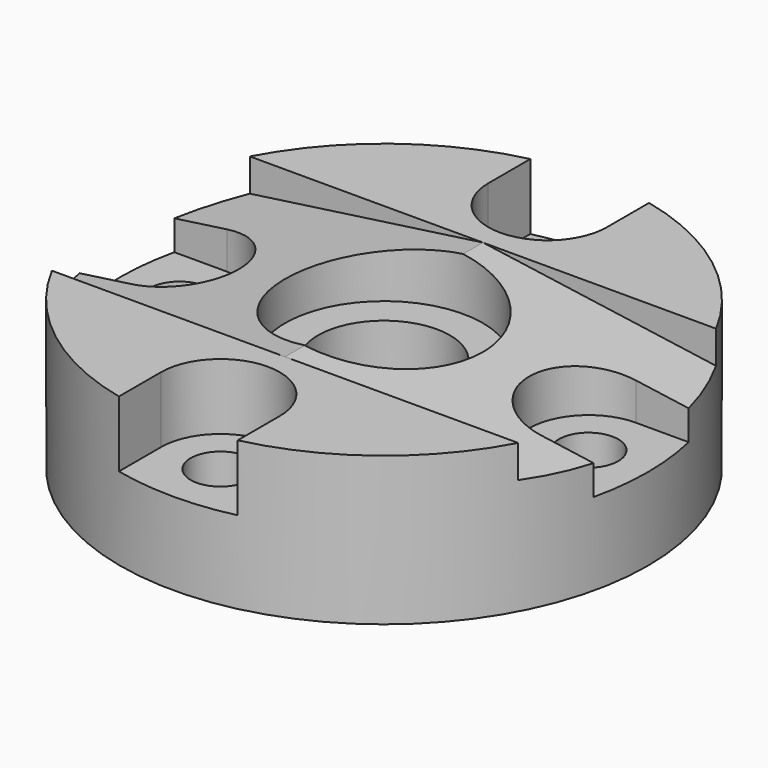
from build123d import *

# Parameters (mm, degrees)
SKETCH005_R     = 20
PAD003_DEPTH    = 29
PAD002_DEPTH    = 37.5
PAD001_DEPTH    = 37.5
SKETCH_R        = 80
PAD_DEPTH       = 45
SKETCH001_R     = 9
POCKET_DEPTH    = 25
POCKET001_DEPTH = 20
SKETCH006_R     = 30
POCKET002_DEPTH = 16


with BuildPart() as eje_central:
    # Sketch005 → Pad003 (new body)
    with BuildSketch(Plane.XY):
        Circle(SKETCH005_R)
    extrude(amount=PAD003_DEPTH)


with BuildPart() as corte_izquierdo:
    # Sketch004 → Pad002 (new body, symmetric)
    with BuildSketch(Plane.XZ):
        Polygon((0, 45), (-80, 45), (-80, 33.756733), align=None)
    extrude(amount=PAD002_DEPTH, both=True)


with BuildPart() as corte_derecho:
    # Sketch003 → Pad001 (new body, symmetric)
    with BuildSketch(Plane.XZ):
        Polygon((80, 45), (0, 45), (80, 33.756733), align=None)
    extrude(amount=PAD001_DEPTH, both=True)


with BuildPart() as pieza:
    # Sketch → Pad (new body)
    with BuildSketch(Plane.XY):
        Circle(SKETCH_R)
    extrude(amount=PAD_DEPTH)

    # Sketch001 (on Face2 of Pad) → Pocket (cut)
    with BuildSketch(Plane(origin=(0, 0, 0), x_dir=(1, 0, 0), z_dir=(0, 0, -1))):
        with Locations((62, 0)):
            Circle(SKETCH001_R)
        with Locations((0, 62)):
            Circle(SKETCH001_R)
        with Locations((-62, 0)):
            Circle(SKETCH001_R)
        with Locations((0, -62)):
            Circle(SKETCH001_R)
    extrude(amount=-POCKET_DEPTH, mode=Mode.SUBTRACT)

    # Sketch002 (on Face3 of Pocket) → Pocket001 (cut)
    with BuildSketch(Plane.XY.offset(45)):
        with BuildLine():
            ThreePointArc((-18, -77.948701), (0, -80), (18, -77.948701))
            Line((18, -62), (18, -77.948701))
            ThreePointArc((18, -62), (-4e-06, -44), (-18, -62.000008))
            Line((-18, -62.000008), (-18, -77.948701))
        make_face()
        with BuildLine():
            ThreePointArc((18.000006, 77.9487), (6e-06, 80), (-17.999994, 77.948703))
            Line((-17.999994, 77.948703), (-17.999994, 61.999992))
            ThreePointArc((-17.999994, 61.999992), (1e-05, 44), (18.000006, 62))
            Line((18.000006, 77.9487), (18.000006, 62))
        make_face()
        with BuildLine():
            Line((62.000006, 18), (77.948701, 18))
            ThreePointArc((77.948701, -18), (80, 0), (77.948701, 18))
            Line((62, -18), (77.948701, -18))
            ThreePointArc((62.000006, 18), (44, 3e-06), (62, -18))
        make_face()
        with BuildLine():
            Line((-61.999994, 18), (-77.948701, 18))
            ThreePointArc((-77.948701, 18), (-80, 0), (-77.948701, -18))
            Line((-61.999994, -18), (-77.948701, -18))
            ThreePointArc((-61.999994, -18), (-43.999994, 0), (-61.999994, 18))
        make_face()
    extrude(amount=-POCKET001_DEPTH, mode=Mode.SUBTRACT)

    # Sketch006 (on Face5 of Pocket001) → Pocket002 (cut)
    with BuildSketch(Plane.XY.offset(45)):
        Circle(SKETCH006_R)
    extrude(amount=-POCKET002_DEPTH, mode=Mode.SUBTRACT)

    # Cut: cut Corte derecho
    add(corte_derecho.part, mode=Mode.SUBTRACT)

    # Cut001: cut Corte izquierdo
    add(corte_izquierdo.part, mode=Mode.SUBTRACT)

    # Cut002: cut Eje Central
    add(eje_central.part, mode=Mode.SUBTRACT)


solid = pieza.part
